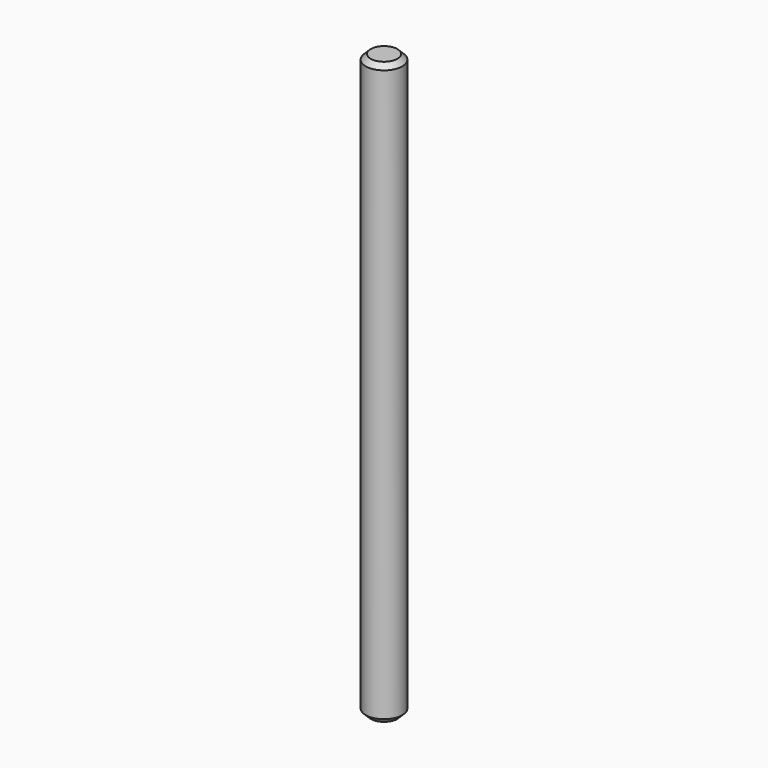
from build123d import *

# Parameters (mm, degrees)
SKETCH_R     = 1.1
PAD_DEPTH    = 35
CHAMFER_SIZE = 0.3


with BuildPart() as part:
    # Sketch → Pad (new body)
    with BuildSketch(Plane.XY):
        Circle(SKETCH_R)
    extrude(amount=PAD_DEPTH)

    # Chamfer
    chamfer_edges = [part.edges().sort_by_distance(p)[0] for p in [
        (-1.1, 0, 0),
        (-1.1, 0, 35),
    ]]
    chamfer(chamfer_edges, length=CHAMFER_SIZE)


solid = part.part
